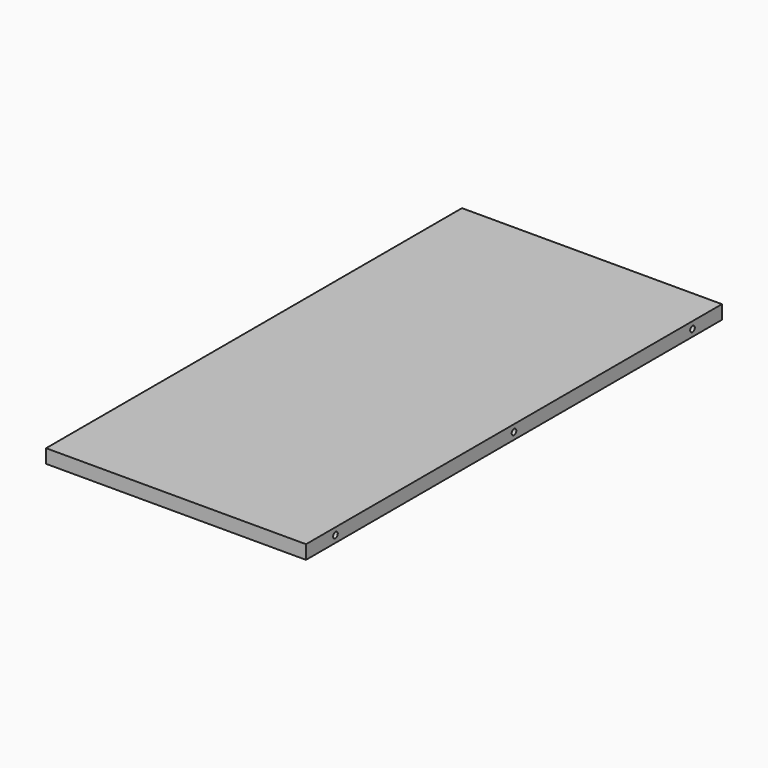
from build123d import *

# Parameters (mm, degrees)
F0_W     = 358.775
F0_H     = 717.55
F1_DEPTH = 19.05
F3_D     = 8.001
F3_DEPTH = 25.4
F3_TIP   = 2.4037429064
F5_D     = 8.001
F5_DEPTH = 25.4
F5_TIP   = 2.4037429064
F7_D     = 8.001
F7_DEPTH = 25.4
F7_TIP   = 2.4037429064
F9_D     = 15.0114
F9_DEPTH = 14.224
F9_TIP   = 4.5098795482


with BuildPart() as f1:
    # F0 (on Top) → F1 (new body)
    with BuildSketch(Plane.XY):
        Rectangle(F0_W, F0_H)
    extrude(amount=F1_DEPTH)

    # F3
    with Locations(Plane(origin=(-179.3875, 0, 0), x_dir=(0, -1, 0), z_dir=(-1, 0, 0))):
        with Locations((-307.975, 9.525), (0, 9.525), (307.975, 9.525)):
            Hole(F3_D / 2, depth=F3_DEPTH)
            with Locations((0, 0, -(F3_DEPTH + F3_TIP / 2))):  # 118° drill point
                Cone(0, F3_D / 2, F3_TIP, mode=Mode.SUBTRACT)

    # F5
    with Locations(Plane.YZ.offset(179.3875)):
        with Locations((-307.975, 9.525), (0, 9.525), (307.975, 9.525)):
            Hole(F5_D / 2, depth=F5_DEPTH)
            with Locations((0, 0, -(F5_DEPTH + F5_TIP / 2))):  # 118° drill point
                Cone(0, F5_D / 2, F5_TIP, mode=Mode.SUBTRACT)

    # F7
    with Locations(Plane(origin=(0, 358.775, 0), x_dir=(-1, 0, 0), z_dir=(0, 1, 0))):
        with Locations((-128.5875, 9.525), (0, 9.525), (128.5875, 9.525)):
            Hole(F7_D / 2, depth=F7_DEPTH)
            with Locations((0, 0, -(F7_DEPTH + F7_TIP / 2))):  # 118° drill point
                Cone(0, F7_D / 2, F7_TIP, mode=Mode.SUBTRACT)

    # F9
    with Locations(Plane(origin=(0, 0, 0), x_dir=(1, 0, 0), z_dir=(0, 0, -1))):
        with Locations((-155.5115, 307.975), (155.5115, 307.975), (155.5115, 0), (-155.5115, 0), (-155.5115, -307.975), (-134.6194893122, -334.899), (0, -334.899), (128.5875, -334.899), (155.5115, -307.975)):
            Hole(F9_D / 2, depth=F9_DEPTH)
            with Locations((0, 0, -(F9_DEPTH + F9_TIP / 2))):  # 118° drill point
                Cone(0, F9_D / 2, F9_TIP, mode=Mode.SUBTRACT)


solid = f1.part
